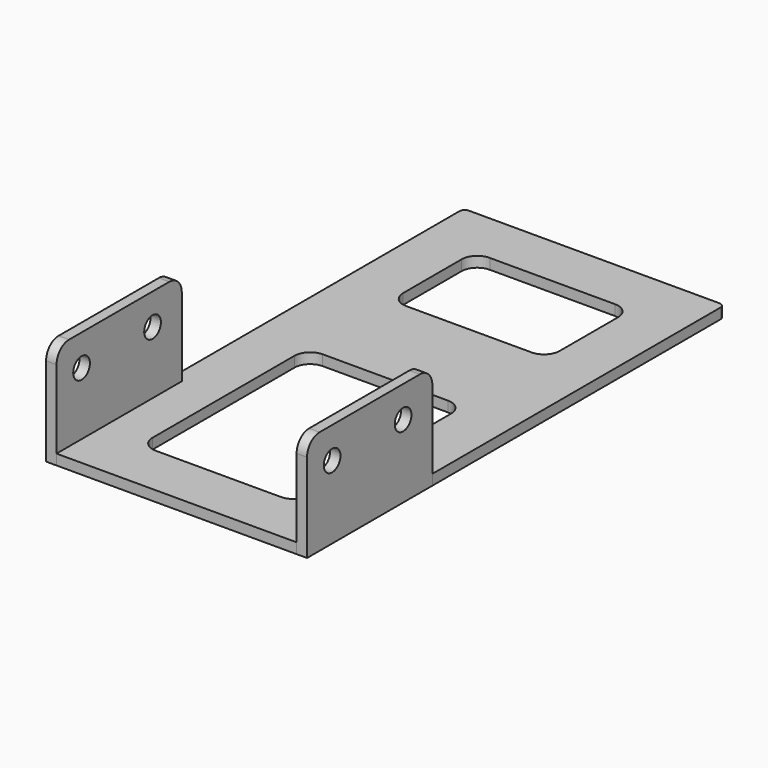
from build123d import *

# Parameters (mm, degrees)
BOX002_W          = 30
BOX002_H          = 40
BOX002_DEPTH      = 3
FILLET002_R       = 3
BOX001_W          = 30
BOX001_H          = 20
BOX001_DEPTH      = 3
FILLET001_R       = 3
BOX_W             = 50
BOX_H             = 100
BOX_DEPTH         = 2
FILLET_R          = 1
CYLINDER001_R     = 2
CYLINDER001_DEPTH = 3
CYLINDER_R        = 2
CYLINDER_DEPTH    = 3
BOX003_W          = 2
BOX003_H          = 30
BOX003_DEPTH      = 20
FILLET003_R       = 3
CYLINDER003_R     = 2
CYLINDER003_DEPTH = 3
CYLINDER002_R     = 2
CYLINDER002_DEPTH = 3
BOX004_W          = 2
BOX004_H          = 30
BOX004_DEPTH      = 20
FILLET004_R       = 3


with BuildPart() as fillet002:
    # Box002 → Box002 (new body)
    with BuildSketch(Plane.XY):
        with Locations((15, 20)):
            Rectangle(BOX002_W, BOX002_H)
    extrude(amount=BOX002_DEPTH)

    # Fillet002
    fillet002_edges = [fillet002.edges().sort_by_distance(p)[0] for p in [
        (0, 0, 1.5),
        (0, 40, 1.5),
        (30, 0, 1.5),
        (30, 40, 1.5),
    ]]
    fillet(fillet002_edges, radius=FILLET002_R)


with BuildPart() as fillet002_1:
    # Fillet002 placement: moved
    add(fillet002.part.moved(Location((10, 10, 0))))


with BuildPart() as fillet001:
    # Box001 → Box001 (new body)
    with BuildSketch(Plane.XY):
        with Locations((15, 10)):
            Rectangle(BOX001_W, BOX001_H)
    extrude(amount=BOX001_DEPTH)

    # Fillet001
    fillet001_edges = [fillet001.edges().sort_by_distance(p)[0] for p in [
        (0, 0, 1.5),
        (0, 20, 1.5),
        (30, 0, 1.5),
        (30, 20, 1.5),
    ]]
    fillet(fillet001_edges, radius=FILLET001_R)


with BuildPart() as fillet001_1:
    # Fillet001 placement: moved
    add(fillet001.part.moved(Location((10, 70, 0))))


with BuildPart() as base:
    # Box → Box (new body)
    with BuildSketch(Plane.XY):
        with Locations((25, 50)):
            Rectangle(BOX_W, BOX_H)
    extrude(amount=BOX_DEPTH)

    # Fillet
    fillet_edges = [base.edges().sort_by_distance(p)[0] for p in [
        (0, 100, 1),
        (50, 100, 1),
    ]]
    fillet(fillet_edges, radius=FILLET_R)

    # Cut: cut Fillet001
    add(fillet001_1.part, mode=Mode.SUBTRACT)

    # Cut001: cut Fillet002
    add(fillet002_1.part, mode=Mode.SUBTRACT)


with BuildPart() as cilindre001:
    # Cylinder001 → Cylinder001 (new body)
    with BuildSketch(Plane(origin=(0, 23, 14), x_dir=(0, 0, -1), z_dir=(1, 0, 0))):
        Circle(CYLINDER001_R)
    extrude(amount=CYLINDER001_DEPTH)


with BuildPart() as fusion:
    # Cylinder → Cylinder (new body)
    with BuildSketch(Plane(origin=(0, 6, 14), x_dir=(0, 0, -1), z_dir=(1, 0, 0))):
        Circle(CYLINDER_R)
    extrude(amount=CYLINDER_DEPTH)

    # Fusion: union Cilindre001
    add(cilindre001.part)


with BuildPart() as obj1:
    # Box003 → Box003 (new body)
    with BuildSketch(Plane.XY):
        with Locations((1, 15)):
            Rectangle(BOX003_W, BOX003_H)
    extrude(amount=BOX003_DEPTH)

    # Fillet003
    fillet003_edges = [obj1.edges().sort_by_distance(p)[0] for p in [
        (1, 0, 20),
        (1, 30, 20),
    ]]
    fillet(fillet003_edges, radius=FILLET003_R)

    # Cut002: cut Fusion
    add(fusion.part, mode=Mode.SUBTRACT)


with BuildPart() as cilindre003:
    # Cylinder003 → Cylinder003 (new body)
    with BuildSketch(Plane(origin=(0, 23, 14), x_dir=(0, 0, -1), z_dir=(1, 0, 0))):
        Circle(CYLINDER003_R)
    extrude(amount=CYLINDER003_DEPTH)


with BuildPart() as fusion001:
    # Cylinder002 → Cylinder002 (new body)
    with BuildSketch(Plane(origin=(0, 6, 14), x_dir=(0, 0, -1), z_dir=(1, 0, 0))):
        Circle(CYLINDER002_R)
    extrude(amount=CYLINDER002_DEPTH)

    # Fusion001: union Cilindre003
    add(cilindre003.part)


with BuildPart() as obj2:
    # Box004 → Box004 (new body)
    with BuildSketch(Plane.XY):
        with Locations((1, 15)):
            Rectangle(BOX004_W, BOX004_H)
    extrude(amount=BOX004_DEPTH)

    # Fillet004
    fillet004_edges = [obj2.edges().sort_by_distance(p)[0] for p in [
        (1, 0, 20),
        (1, 30, 20),
    ]]
    fillet(fillet004_edges, radius=FILLET004_R)

    # Cut003: cut Fusion001
    add(fusion001.part, mode=Mode.SUBTRACT)


with BuildPart() as obj2_1:
    # Cut003 placement: moved
    add(obj2.part.moved(Location((48, 0, 0))))


solid = Compound([base.part, obj1.part, obj2_1.part])
